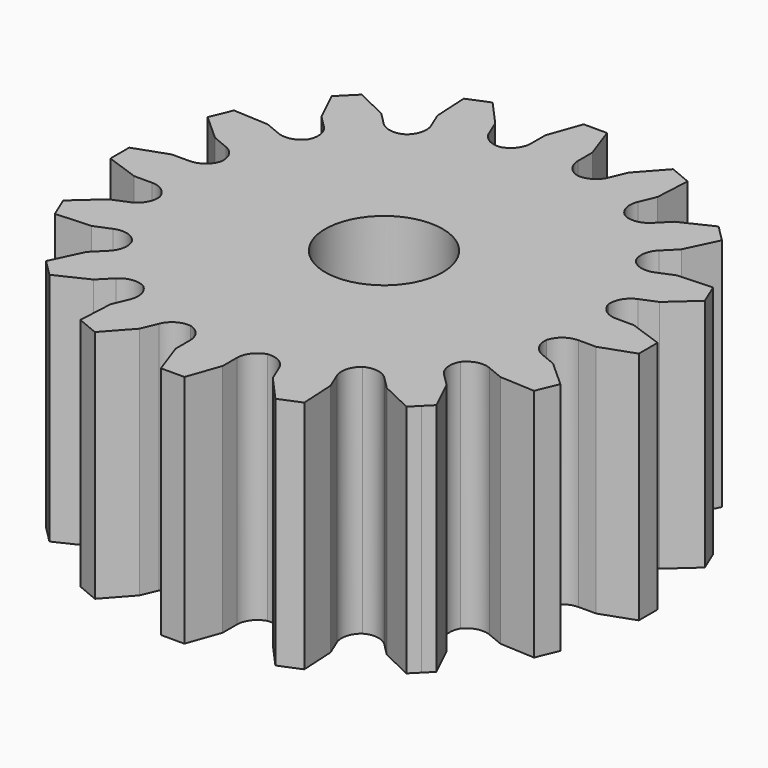
from build123d import *

# Parameters (mm, degrees)
F0_R     = 6.35
F1_DEPTH = 25.4


with BuildPart() as f1:
    # F0 (on Top) → F1 (new body)
    with BuildSketch(Plane.XY):
        with BuildLine():
            Line((1.27, 28.575), (0, 28.575))
            Line((0, 28.575), (-1.27, 28.575))
            Line((-1.27, 28.575), (-2.54, 24.982901))
            Line((-2.54, 24.982901), (-2.54, 23.072094))
            ThreePointArc((-2.54, 23.072094), (-2.991826, 21.728881), (-4.163596, 20.931809))
            ThreePointArc((-4.163596, 20.931809), (-5.551196, 21.219791), (-6.482654, 22.287851))
            Line((-6.482654, 22.287851), (-7.213888, 24.053207))
            Line((-7.213888, 24.053207), (-9.761852, 26.885866))
            Line((-9.761852, 26.885866), (-10.935179, 26.399858))
            Line((-10.935179, 26.399858), (-12.108506, 25.91385))
            Line((-12.108506, 25.91385), (-11.907196, 22.109175))
            Line((-11.907196, 22.109175), (-11.175962, 20.343819))
            ThreePointArc((-11.175962, 20.343819), (-11.07937, 18.929946), (-11.856917, 17.745131))
            ThreePointArc((-11.856917, 17.745131), (-13.249099, 17.48018), (-14.518383, 18.110485))
            Line((-14.518383, 18.110485), (-15.869528, 19.46163))
            Line((-15.869528, 19.46163), (-19.307551, 21.103602))
            Line((-19.307551, 21.103602), (-20.205576, 20.205576))
            Line((-20.205576, 20.205576), (-21.103602, 19.307551))
            Line((-21.103602, 19.307551), (-19.46163, 15.869528))
            Line((-19.46163, 15.869528), (-18.110485, 14.518383))
            ThreePointArc((-18.110485, 14.518383), (-17.48018, 13.249099), (-17.745131, 11.856917))
            ThreePointArc((-17.745131, 11.856917), (-18.929946, 11.07937), (-20.343819, 11.175962))
            Line((-20.343819, 11.175962), (-22.109175, 11.907196))
            Line((-22.109175, 11.907196), (-25.91385, 12.108506))
            Line((-25.91385, 12.108506), (-26.399858, 10.935179))
            Line((-26.399858, 10.935179), (-26.885866, 9.761852))
            Line((-26.885866, 9.761852), (-24.053207, 7.213888))
            Line((-24.053207, 7.213888), (-22.287851, 6.482654))
            ThreePointArc((-22.287851, 6.482654), (-21.219791, 5.551196), (-20.931809, 4.163596))
            ThreePointArc((-20.931809, 4.163596), (-21.728881, 2.991826), (-23.072094, 2.54))
            Line((-23.072094, 2.54), (-24.982901, 2.54))
            Line((-24.982901, 2.54), (-28.575, 1.27))
            Line((-28.575, 1.27), (-28.575, 0))
            Line((-28.575, 0), (-28.575, -1.27))
            Line((-28.575, -1.27), (-24.982901, -2.54))
            Line((-24.982901, -2.54), (-23.072094, -2.54))
            ThreePointArc((-23.072094, -2.54), (-21.728881, -2.991826), (-20.931809, -4.163596))
            ThreePointArc((-20.931809, -4.163596), (-21.219791, -5.551196), (-22.287851, -6.482654))
            Line((-22.287851, -6.482654), (-24.053207, -7.213888))
            Line((-24.053207, -7.213888), (-26.885866, -9.761852))
            Line((-26.885866, -9.761852), (-26.399858, -10.935179))
            Line((-26.399858, -10.935179), (-25.91385, -12.108506))
            Line((-25.91385, -12.108506), (-22.109175, -11.907196))
            Line((-22.109175, -11.907196), (-20.343819, -11.175962))
            ThreePointArc((-20.343819, -11.175962), (-18.929946, -11.07937), (-17.745131, -11.856917))
            ThreePointArc((-17.745131, -11.856917), (-17.48018, -13.249099), (-18.110485, -14.518383))
            Line((-18.110485, -14.518383), (-19.46163, -15.869528))
            Line((-19.46163, -15.869528), (-21.103602, -19.307551))
            Line((-21.103602, -19.307551), (-20.205576, -20.205576))
            Line((-20.205576, -20.205576), (-19.307551, -21.103602))
            Line((-19.307551, -21.103602), (-15.869528, -19.46163))
            Line((-15.869528, -19.46163), (-14.518383, -18.110485))
            ThreePointArc((-14.518383, -18.110485), (-13.249099, -17.48018), (-11.856917, -17.745131))
            ThreePointArc((-11.856917, -17.745131), (-11.07937, -18.929946), (-11.175962, -20.343819))
            Line((-11.175962, -20.343819), (-11.907196, -22.109175))
            Line((-11.907196, -22.109175), (-12.108506, -25.91385))
            Line((-12.108506, -25.91385), (-10.935179, -26.399858))
            Line((-10.935179, -26.399858), (-9.761852, -26.885866))
            Line((-9.761852, -26.885866), (-7.213888, -24.053207))
            Line((-7.213888, -24.053207), (-6.482654, -22.287851))
            ThreePointArc((-6.482654, -22.287851), (-5.551196, -21.219791), (-4.163596, -20.931809))
            ThreePointArc((-4.163596, -20.931809), (-2.991826, -21.728881), (-2.54, -23.072094))
            Line((-2.54, -23.072094), (-2.54, -24.982901))
            Line((-2.54, -24.982901), (-1.27, -28.575))
            Line((-1.27, -28.575), (0, -28.575))
            Line((0, -28.575), (1.27, -28.575))
            Line((1.27, -28.575), (2.54, -24.982901))
            Line((2.54, -24.982901), (2.54, -23.072094))
            ThreePointArc((2.54, -23.072094), (2.991826, -21.728881), (4.163596, -20.931809))
            ThreePointArc((4.163596, -20.931809), (5.551196, -21.219791), (6.482654, -22.287851))
            Line((6.482654, -22.287851), (7.213888, -24.053207))
            Line((7.213888, -24.053207), (9.761852, -26.885866))
            Line((9.761852, -26.885866), (10.935179, -26.399858))
            Line((10.935179, -26.399858), (12.108506, -25.91385))
            Line((12.108506, -25.91385), (11.907196, -22.109175))
            Line((11.907196, -22.109175), (11.175962, -20.343819))
            ThreePointArc((11.175962, -20.343819), (11.07937, -18.929946), (11.856917, -17.745131))
            ThreePointArc((11.856917, -17.745131), (13.249099, -17.48018), (14.518383, -18.110485))
            Line((14.518383, -18.110485), (15.869528, -19.46163))
            Line((15.869528, -19.46163), (19.307551, -21.103602))
            Line((19.307551, -21.103602), (20.205576, -20.205576))
            Line((20.205576, -20.205576), (21.103602, -19.307551))
            Line((21.103602, -19.307551), (19.46163, -15.869528))
            Line((19.46163, -15.869528), (18.110485, -14.518383))
            ThreePointArc((18.110485, -14.518383), (17.48018, -13.249099), (17.745131, -11.856917))
            ThreePointArc((17.745131, -11.856917), (18.929946, -11.07937), (20.343819, -11.175962))
            Line((20.343819, -11.175962), (22.109175, -11.907196))
            Line((22.109175, -11.907196), (25.91385, -12.108506))
            Line((25.91385, -12.108506), (26.399858, -10.935179))
            Line((26.399858, -10.935179), (26.885866, -9.761852))
            Line((26.885866, -9.761852), (24.053207, -7.213888))
            Line((24.053207, -7.213888), (22.287851, -6.482654))
            ThreePointArc((22.287851, -6.482654), (21.219791, -5.551196), (20.931809, -4.163596))
            ThreePointArc((20.931809, -4.163596), (21.728881, -2.991826), (23.072094, -2.54))
            Line((23.072094, -2.54), (24.982901, -2.54))
            Line((24.982901, -2.54), (28.575, -1.27))
            Line((28.575, -1.27), (28.575, 0))
            Line((28.575, 0), (28.575, 1.27))
            Line((28.575, 1.27), (24.982901, 2.54))
            Line((24.982901, 2.54), (23.072094, 2.54))
            ThreePointArc((23.072094, 2.54), (21.728881, 2.991826), (20.931809, 4.163596))
            ThreePointArc((20.931809, 4.163596), (21.219791, 5.551196), (22.287851, 6.482654))
            Line((22.287851, 6.482654), (24.053207, 7.213888))
            Line((24.053207, 7.213888), (26.885866, 9.761852))
            Line((26.885866, 9.761852), (26.399858, 10.935179))
            Line((26.399858, 10.935179), (25.91385, 12.108506))
            Line((25.91385, 12.108506), (22.109175, 11.907196))
            Line((22.109175, 11.907196), (20.343819, 11.175962))
            ThreePointArc((20.343819, 11.175962), (18.929946, 11.07937), (17.745131, 11.856917))
            ThreePointArc((17.745131, 11.856917), (17.48018, 13.249099), (18.110485, 14.518383))
            Line((18.110485, 14.518383), (19.46163, 15.869528))
            Line((19.46163, 15.869528), (21.103602, 19.307551))
            Line((21.103602, 19.307551), (20.205576, 20.205576))
            Line((20.205576, 20.205576), (19.307551, 21.103602))
            Line((19.307551, 21.103602), (15.869528, 19.46163))
            Line((15.869528, 19.46163), (14.518383, 18.110485))
            ThreePointArc((14.518383, 18.110485), (13.249099, 17.48018), (11.856917, 17.745131))
            ThreePointArc((11.856917, 17.745131), (11.07937, 18.929946), (11.175962, 20.343819))
            Line((11.175962, 20.343819), (11.907196, 22.109175))
            Line((11.907196, 22.109175), (12.108506, 25.91385))
            Line((12.108506, 25.91385), (10.935179, 26.399858))
            Line((10.935179, 26.399858), (9.761852, 26.885866))
            Line((9.761852, 26.885866), (7.213888, 24.053207))
            Line((7.213888, 24.053207), (6.482654, 22.287851))
            ThreePointArc((6.482654, 22.287851), (5.551196, 21.219791), (4.163596, 20.931809))
            ThreePointArc((4.163596, 20.931809), (2.991826, 21.728881), (2.54, 23.072094))
            Line((2.54, 23.072094), (2.54, 24.982901))
            Line((2.54, 24.982901), (1.27, 28.575))
        make_face()
        Circle(F0_R, mode=Mode.SUBTRACT)
    extrude(amount=F1_DEPTH)


solid = f1.part
